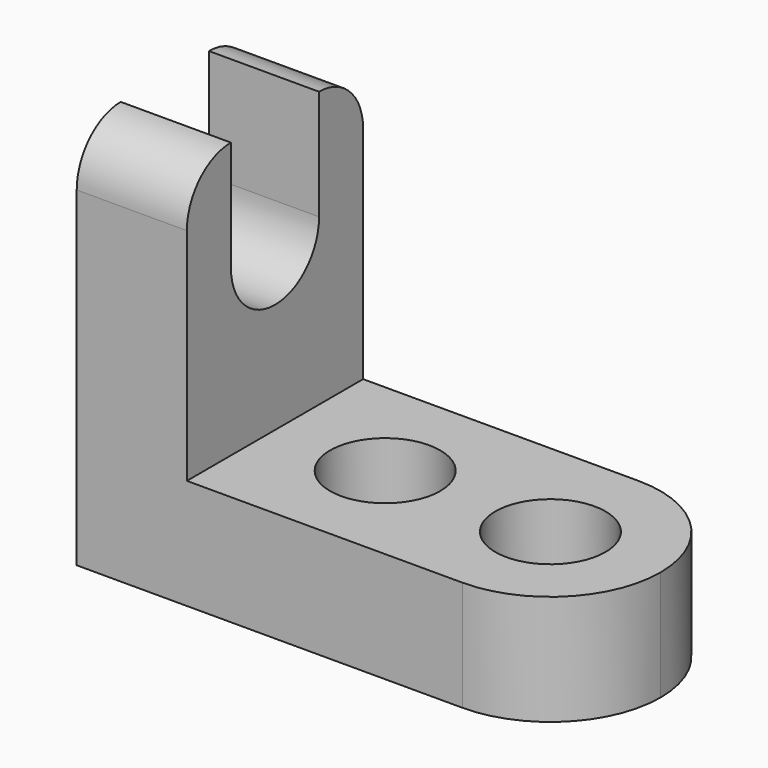
from build123d import *

# Parameters (mm, degrees)
F1_DEPTH = 25.4
F2_R     = 6.35
F3_DEPTH = 12.701
F5_DEPTH = 25.4


with BuildPart() as f1:
    # F0 (on Front) → F1 (new body)
    with BuildSketch(Plane.XZ):
        Polygon((-41.391158, 44.45), (-54.091158, 44.45), (-54.091158, 0), (3.058842, 0), (3.058842, 12.7), (-41.391158, 12.7), align=None)
    extrude(amount=F1_DEPTH)

    # F2 (on face) → F3 (cut, through all)
    with BuildSketch(Plane.XY.offset(12.7)):
        with Locations((-28.691158, -12.7)):
            Circle(F2_R)
        with Locations((-9.641158, -12.7)):
            Circle(F2_R)
        with BuildLine():
            ThreePointArc((-9.641158, 0), (-0.660902, -3.719744), (3.058842, -12.7))
            Line((3.058842, -12.7), (3.058842, 0))
            Line((3.058842, 0), (-9.641158, 0))
        make_face()
        with BuildLine():
            ThreePointArc((3.058842, -12.7), (-0.660902, -21.680256), (-9.641158, -25.4))
            Line((-9.641158, -25.4), (3.058842, -25.4))
            Line((3.058842, -25.4), (3.058842, -12.7))
        make_face()
    extrude(amount=-F3_DEPTH, mode=Mode.SUBTRACT)

    # F4 (on face) → F5 (cut)
    with BuildSketch(Plane(origin=(-54.091158, 0, 0), x_dir=(0, -1, 0), z_dir=(-1, 0, 0))):
        with BuildLine():
            ThreePointArc((6.35, 31.75), (12.7, 25.4), (19.05, 31.75))
            ThreePointArc((19.05, 31.75), (12.7, 38.1), (6.35, 31.75))
        make_face()
        with BuildLine():
            ThreePointArc((0, 38.1), (1.859872, 42.590128), (6.35, 44.45))
            Line((6.35, 44.45), (0, 44.45))
            Line((0, 44.45), (0, 38.1))
        make_face()
        with BuildLine():
            Line((25.4, 44.45), (19.05, 44.45))
            ThreePointArc((19.05, 44.45), (23.540418, 42.587034), (25.4, 38.095213))
            Line((25.4, 38.095213), (25.4, 44.45))
        make_face()
        with BuildLine():
            ThreePointArc((6.35, 31.75), (12.7, 38.1), (19.05, 31.75))
            Line((19.05, 31.75), (19.05, 44.45))
            Line((19.05, 44.45), (6.35, 44.45))
            Line((6.35, 44.45), (6.35, 31.75))
        make_face()
    extrude(amount=-F5_DEPTH, mode=Mode.SUBTRACT)


solid = f1.part
